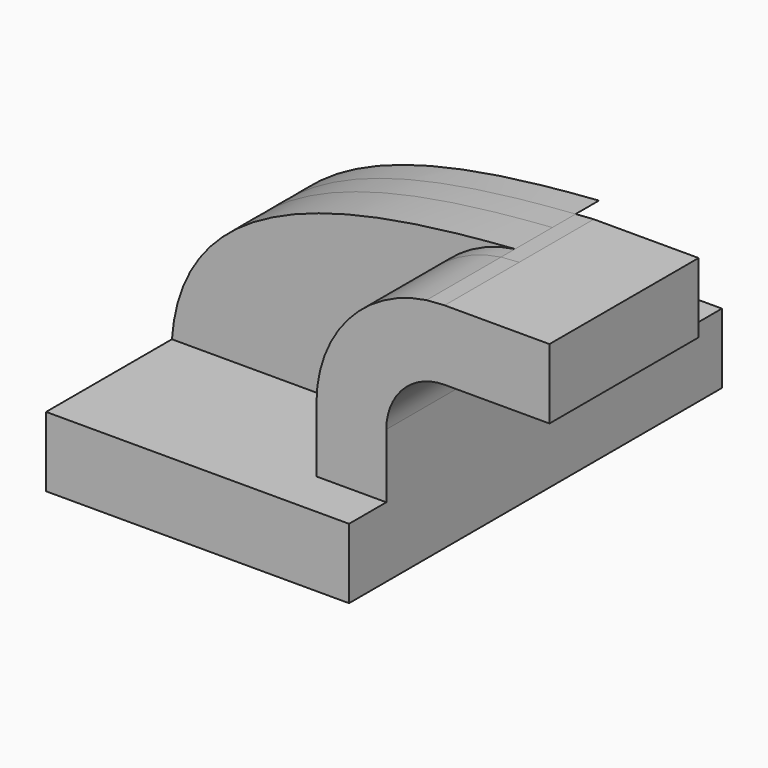
from build123d import *

# Parameters (mm, degrees)
F1_DEPTH  = 63.5
F2_DEPTH  = 25.4
F3_DEPTH  = 25.4
F3_FACE_W = 50.8
F3_FACE_H = 19.05
F4_DEPTH  = 25.4
F5_DEPTH  = 7.9375
F6_DEPTH  = 12.7


with BuildPart() as f1:
    # F0 (on Front) → F1 (new body, symmetric)
    with BuildSketch(Plane.XZ):
        Polygon((22.225, 9.525), (-41.275, 9.525), (-41.275, -9.525), (41.275, -9.525), (41.275, 9.525), align=None)
    extrude(amount=F1_DEPTH, both=True)

    # F0 (on Front) → F2 (join)
    with BuildSketch(Plane.XZ):
        with BuildLine():
            Line((22.225, 27.0002), (22.225, 9.525))
            Line((22.225, 9.525), (41.275, 9.525))
            Line((41.275, 9.525), (41.275, 27.0002))
            ThreePointArc((41.275, 27.0002), (45.92468, 38.22552), (57.15, 42.8752))
            Line((57.15, 42.8752), (60.325, 42.8752))
            Line((60.325, 42.8752), (60.325, 61.9252))
            Line((60.325, 61.9252), (57.15, 61.9252))
            add(Edge.make_bspline(
                [(52.222263, 61.575813), (53.87533, 61.698715), (55.518942, 61.814596), (57.15, 61.9252)],
                knots=[107.296838, 107.296838, 107.296838, 107.296838, 111.504536, 111.504536, 111.504536, 111.504536], degree=3))
            ThreePointArc((52.222263, 61.575813), (30.769545, 49.887472), (22.225, 27.0002))
        make_face()
    extrude(amount=F2_DEPTH)

    # F2_face (on face) → F3 (join, symmetric)
    with BuildSketch(Plane(origin=(38.743879, -25.4, 36.959126), x_dir=(1, 0, 0), z_dir=(0, -1, 0))):
        with BuildLine():
            ThreePointArc((13.478383, 24.616687), (-7.974335, 12.928345), (-16.518879, -9.958926))
            Line((-16.518879, -9.958926), (-16.518879, -27.434126))
            Line((-16.518879, -27.434126), (2.531121, -27.434126))
            Line((2.531121, -27.434126), (2.531121, -9.958926))
            ThreePointArc((2.531121, -9.958926), (7.180801, 1.266394), (18.406121, 5.916074))
            Line((18.406121, 5.916074), (21.581121, 5.916074))
            Line((21.581121, 5.916074), (21.581121, 24.966074))
            Line((21.581121, 24.966074), (18.406121, 24.966074))
            add(Edge.make_bspline(
                [(13.478383, 24.616687), (15.131451, 24.739589), (16.775063, 24.855469), (18.406121, 24.966074)],
                knots=[107.296838, 107.296838, 107.296838, 107.296838, 111.504536, 111.504536, 111.504536, 111.504536], degree=3))
        make_face()
    extrude(amount=F3_DEPTH, both=True)

    # F3_face (on face) → F4 (join)
    with BuildSketch(Plane(origin=(60.325, -25.4, 52.4002), x_dir=(0, 1, 0), z_dir=(1, 0, 0))):
        Rectangle(F3_FACE_W, F3_FACE_H)
    extrude(amount=F4_DEPTH)

    # F0 (on Front) → F5 (join, symmetric)
    with BuildSketch(Plane.XZ):
        with BuildLine():
            add(Edge.make_bspline(
                [(-41.275, 9.525), (-38.232598, 50.741845), (10.068833, 58.441796), (52.222263, 61.575813)],
                knots=[0, 0, 0, 0, 107.296838, 107.296838, 107.296838, 107.296838], degree=3))
            Line((-41.275, 9.525), (22.225, 9.525))
            Line((22.225, 9.525), (22.225, 27.0002))
            ThreePointArc((22.225, 27.0002), (30.769545, 49.887472), (52.222263, 61.575813))
        make_face()
    extrude(amount=F5_DEPTH, both=True)

    # F5_face (on face) → F6 (join, symmetric)
    with BuildSketch(Plane(origin=(-1.735733, -7.9375, 31.373848), x_dir=(1, 0, 0), z_dir=(0, -1, 0))):
        with BuildLine():
            add(Edge.make_bspline(
                [(-39.539267, -21.848848), (-36.496865, 19.367997), (11.804566, 27.067948), (53.957996, 30.201965)],
                knots=[0, 0, 0, 0, 107.296838, 107.296838, 107.296838, 107.296838], degree=3))
            Line((-39.539267, -21.848848), (23.960733, -21.848848))
            Line((23.960733, -21.848848), (23.960733, -4.373648))
            ThreePointArc((23.960733, -4.373648), (32.505278, 18.513623), (53.957996, 30.201965))
        make_face()
    extrude(amount=F6_DEPTH, both=True)


solid = f1.part
